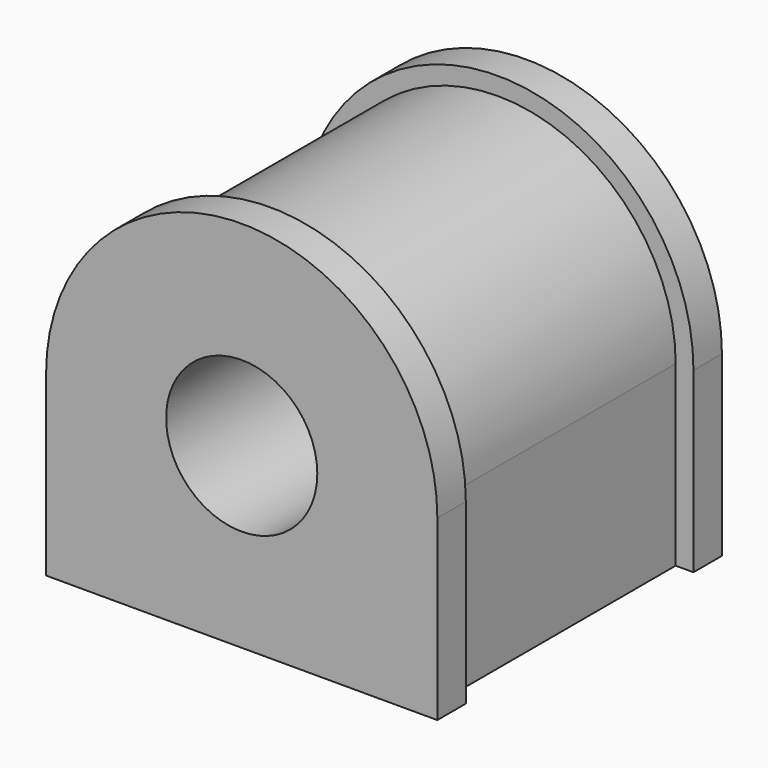
from build123d import *

# Parameters (mm, degrees)
F0_R     = 9
F0_R_2   = 8.5
F0_W     = 2
F0_H     = 20
F1_DEPTH = 20
F2_DEPTH = 0.5
F3_DEPTH = 16


with BuildPart() as f1:
    # F0 (on Front) → F1 (new body, symmetric)
    with BuildSketch(Plane.XZ):
        Circle(F0_R)
        Circle(F0_R_2, mode=Mode.SUBTRACT)
        with BuildLine():
            Line((20, -20), (20, 0))
            ThreePointArc((20, 0), (0, 20), (-20, 0))
            Line((-20, 0), (-20, -20))
            Line((-20, -20), (20, -20))
        make_face()
        Circle(F0_R, mode=Mode.SUBTRACT)
        with BuildLine():
            ThreePointArc((-20, 0), (0, 20), (20, 0))
            Line((20, 0), (22, 0))
            ThreePointArc((22, 0), (0, 22), (-22, 0))
            Line((-22, 0), (-22, -20))
            Line((-22, -20), (-20, -20))
            Line((-20, -20), (-20, 0))
        make_face()
        with Locations((21, -10)):
            Rectangle(F0_W, F0_H)
        Circle(F0_R)
        Circle(F0_R_2, mode=Mode.SUBTRACT)
    extrude(amount=F1_DEPTH, both=True)

    # F0 (on Front) → F2 (cut, symmetric)
    with BuildSketch(Plane.XZ):
        Circle(F0_R)
        Circle(F0_R_2, mode=Mode.SUBTRACT)
    extrude(amount=F2_DEPTH, both=True, mode=Mode.SUBTRACT)

    # F0 (on Front) → F3 (cut, symmetric)
    with BuildSketch(Plane.XZ):
        with BuildLine():
            ThreePointArc((-20, 0), (0, 20), (20, 0))
            Line((20, 0), (22, 0))
            ThreePointArc((22, 0), (0, 22), (-22, 0))
            Line((-22, 0), (-22, -20))
            Line((-22, -20), (-20, -20))
            Line((-20, -20), (-20, 0))
        make_face()
        with Locations((21, -10)):
            Rectangle(F0_W, F0_H)
    extrude(amount=F3_DEPTH, both=True, mode=Mode.SUBTRACT)


solid = f1.part
